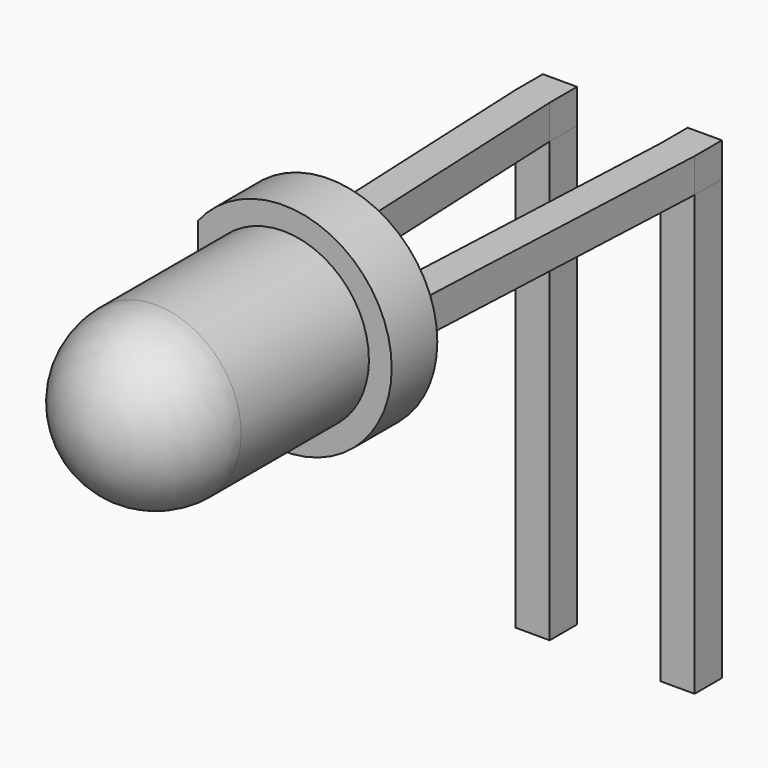
from build123d import *

# Parameters (mm, degrees)
SKETCH_W       = 0.6
SKETCH_H       = 0.6
PAD_DEPTH      = 5.7
PAD_DEPTH_BACK = 2
PAD001_DEPTH   = 0.6
SKETCH002_W    = 2.54
SKETCH002_H    = 0.6
PAD002_DEPTH   = 1
SKETCH004_R    = 1.9
SKETCH004_R_2  = 1.5
PAD003_DEPTH   = 1
SKETCH006_W    = 0.4
SKETCH006_H    = 3.8
POCKET_DEPTH   = 1.001


with BuildPart() as pad:
    # Sketch → Pad (new body, two sides)
    with BuildSketch(Plane.XY) as pad_sk:
        Rectangle(SKETCH_W, SKETCH_H)
        with Locations((2.54, 0)):
            Rectangle(SKETCH_W, SKETCH_H)
    extrude(amount=PAD_DEPTH)
    extrude(pad_sk.sketch, amount=-PAD_DEPTH_BACK)


with BuildPart() as pad001:
    # Sketch001 → Pad001 (new body)
    with BuildSketch(Plane.XY.offset(5.7)):
        Polygon((0.3, 0.3), (-0.3, 0.3), (-0.3, -0.3), (0, -6.85), (0.6, -6.85), (0.3, -0.3), align=None)
        Polygon((2.84, 0.3), (2.24, 0.3), (2.24, -0.3), (1.94, -6.85), (2.54, -6.85), (2.84, -0.3), align=None)
    extrude(amount=PAD001_DEPTH)


with BuildPart() as pad002:
    # Sketch002 → Pad002 (new body)
    with BuildSketch(Plane.XZ.offset(6.85)):
        with Locations((1.27, 6)):
            Rectangle(SKETCH002_W, SKETCH002_H)
    extrude(amount=PAD002_DEPTH)


with BuildPart() as revolution:
    # Sketch003 → Revolution (revolve)
    with BuildSketch(Plane.YZ.offset(1.27)):
        with BuildLine():
            Line((-6.35, 6), (-11.65, 6))
            ThreePointArc((-10.15, 7.5), (-11.21066, 7.06066), (-11.65, 6))
            Line((-6.35, 7.5), (-10.15, 7.5))
            Line((-6.35, 6), (-6.35, 7.5))
        make_face()
    revolve(axis=Axis((1.27, -5.810397, 6), (0, -1, 0)))


with BuildPart() as revolution001:
    # Sketch005 → Revolution001 (revolve)
    with BuildSketch(Plane.YZ.offset(1.27)):
        Polygon((-7.55, 6), (-8.05, 6), (-8.05, 6.5), align=None)
    revolve(axis=Axis((1.27, -3.977201, 6), (0, -1, 0)))


with BuildPart() as pocket:
    # Sketch004 → Pad003 (new body)
    with BuildSketch(Plane.XZ.offset(6.35)):
        with Locations((1.27, 6)):
            Circle(SKETCH004_R)
        with Locations((1.27, 6)):
            Circle(SKETCH004_R_2, mode=Mode.SUBTRACT)
    extrude(amount=PAD003_DEPTH)

    # Sketch006 → Pocket (cut, through all)
    with BuildSketch(Plane.XZ.offset(7.35)):
        with Locations((-0.43, 6)):
            Rectangle(SKETCH006_W, SKETCH006_H)
    extrude(amount=-POCKET_DEPTH, mode=Mode.SUBTRACT)


solid = Compound([pad.part, pad001.part, pad002.part, revolution.part, revolution001.part, pocket.part])
